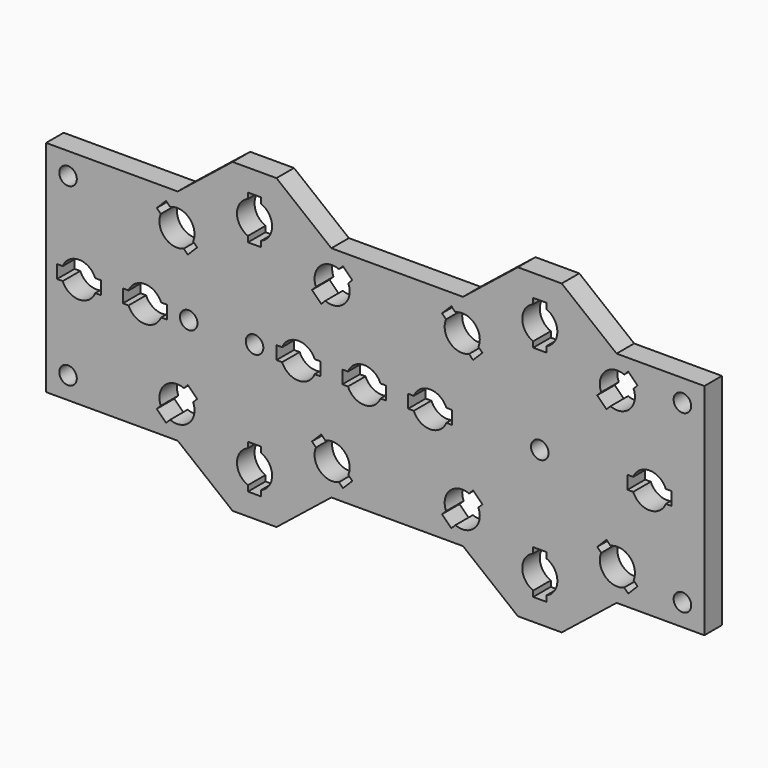
from build123d import *

# Parameters (mm, degrees)
F0_R     = 2
F1_DEPTH = 2.5
F2_R     = 2
F3_DEPTH = 5.001


with BuildPart() as f1:
    # F0 (on Front) → F1 (new body, symmetric)
    with BuildSketch(Plane.XZ):
        Polygon((-68.179107, 25), (-68.179107, 0), (-68.179107, -25), (-38.179107, -25), (-25.679107, -35), (-15.679107, -35), (-3.179107, -25), (26.820893, -25), (39.320893, -35), (49.320893, -35), (61.820893, -25), (81.820893, -25), (81.820893, 0), (81.820893, 25), (61.820893, 25), (49.320893, 35), (39.320893, 35), (26.820893, 25), (-3.179107, 25), (-15.679107, 35), (-25.679107, 35), (-38.179107, 25), align=None)
        with BuildLine():
            ThreePointArc((-34.674095, -16.116308), (-34.436909, -16.881029), (-34.356777, -17.67767))
            ThreePointArc((-34.356777, -17.67767), (-36.148321, -21.012744), (-39.918139, -21.360352))
            Line((-39.918139, -21.360352), (-40.831651, -22.273864))
            Line((-40.831651, -22.273864), (-42.952971, -20.152543))
            Line((-42.952971, -20.152543), (-42.039459, -19.239031))
            ThreePointArc((-42.039459, -19.239031), (-41.185204, -14.849242), (-36.795415, -13.994987))
            Line((-36.795415, -13.994987), (-35.881903, -13.081475))
            Line((-35.881903, -13.081475), (-33.760583, -15.202796))
            Line((-33.760583, -15.202796), (-34.674095, -16.116308))
        make_face(mode=Mode.SUBTRACT)
        with BuildLine():
            ThreePointArc((-19.179107, -21.291901), (-17.362483, -22.763932), (-16.679107, -25))
            ThreePointArc((-16.679107, -25), (-17.362483, -27.236068), (-19.179107, -28.708099))
            Line((-19.179107, -28.708099), (-19.179107, -30))
            Line((-19.179107, -30), (-22.179107, -30))
            Line((-22.179107, -30), (-22.179107, -28.708099))
            ThreePointArc((-22.179107, -28.708099), (-24.679107, -25), (-22.179107, -21.291901))
            Line((-22.179107, -21.291901), (-22.179107, -20))
            Line((-22.179107, -20), (-19.179107, -20))
            Line((-19.179107, -20), (-19.179107, -21.291901))
        make_face(mode=Mode.SUBTRACT)
        with BuildLine():
            ThreePointArc((-4.5628, -13.994987), (-0.792982, -14.342595), (0.998562, -17.67767))
            ThreePointArc((0.998562, -17.67767), (0.91843, -18.47431), (0.681244, -19.239031))
            Line((0.681244, -19.239031), (1.594756, -20.152543))
            Line((1.594756, -20.152543), (-0.526564, -22.273864))
            Line((-0.526564, -22.273864), (-1.440076, -21.360352))
            ThreePointArc((-1.440076, -21.360352), (-5.829865, -20.506097), (-6.68412, -16.116308))
            Line((-6.68412, -16.116308), (-7.597632, -15.202796))
            Line((-7.597632, -15.202796), (-5.476312, -13.081475))
            Line((-5.476312, -13.081475), (-4.5628, -13.994987))
        make_face(mode=Mode.SUBTRACT)
        with BuildLine():
            ThreePointArc((30.325905, -16.116308), (30.563091, -16.881029), (30.643223, -17.67767))
            ThreePointArc((30.643223, -17.67767), (28.851679, -21.012744), (25.081861, -21.360352))
            Line((25.081861, -21.360352), (24.168349, -22.273864))
            Line((24.168349, -22.273864), (22.047029, -20.152543))
            Line((22.047029, -20.152543), (22.960541, -19.239031))
            ThreePointArc((22.960541, -19.239031), (23.814796, -14.849242), (28.204585, -13.994987))
            Line((28.204585, -13.994987), (29.118097, -13.081475))
            Line((29.118097, -13.081475), (31.239417, -15.202796))
            Line((31.239417, -15.202796), (30.325905, -16.116308))
        make_face(mode=Mode.SUBTRACT)
        with BuildLine():
            ThreePointArc((45.820893, -21.291901), (47.637517, -22.763932), (48.320893, -25))
            ThreePointArc((48.320893, -25), (47.637517, -27.236068), (45.820893, -28.708099))
            Line((45.820893, -28.708099), (45.820893, -30))
            Line((45.820893, -30), (42.820893, -30))
            Line((42.820893, -30), (42.820893, -28.708099))
            ThreePointArc((42.820893, -28.708099), (40.320893, -25), (42.820893, -21.291901))
            Line((42.820893, -21.291901), (42.820893, -20))
            Line((42.820893, -20), (45.820893, -20))
            Line((45.820893, -20), (45.820893, -21.291901))
        make_face(mode=Mode.SUBTRACT)
        with BuildLine():
            ThreePointArc((60.4372, -13.994987), (64.207018, -14.342595), (65.998562, -17.67767))
            ThreePointArc((65.998562, -17.67767), (65.91843, -18.47431), (65.681244, -19.239031))
            Line((65.681244, -19.239031), (66.594756, -20.152543))
            Line((66.594756, -20.152543), (64.473436, -22.273864))
            Line((64.473436, -22.273864), (63.559924, -21.360352))
            ThreePointArc((63.559924, -21.360352), (59.170135, -20.506097), (58.31588, -16.116308))
            Line((58.31588, -16.116308), (57.402368, -15.202796))
            Line((57.402368, -15.202796), (59.523688, -13.081475))
            Line((59.523688, -13.081475), (60.4372, -13.994987))
        make_face(mode=Mode.SUBTRACT)
        with BuildLine():
            ThreePointArc((-64.387207, 1.5), (-60.679107, 4), (-56.971008, 1.5))
            Line((-56.971008, 1.5), (-55.679107, 1.5))
            Line((-55.679107, 1.5), (-55.679107, -1.5))
            Line((-55.679107, -1.5), (-56.971008, -1.5))
            ThreePointArc((-56.971008, -1.5), (-60.679107, -4), (-64.387207, -1.5))
            Line((-64.387207, -1.5), (-65.679107, -1.5))
            Line((-65.679107, -1.5), (-65.679107, 1.5))
            Line((-65.679107, 1.5), (-64.387207, 1.5))
        make_face(mode=Mode.SUBTRACT)
        with BuildLine():
            ThreePointArc((-49.387207, 1.5), (-45.679107, 4), (-41.971008, 1.5))
            Line((-41.971008, 1.5), (-40.679107, 1.5))
            Line((-40.679107, 1.5), (-40.679107, -1.5))
            Line((-40.679107, -1.5), (-41.971008, -1.5))
            ThreePointArc((-41.971008, -1.5), (-45.679107, -4), (-49.387207, -1.5))
            Line((-49.387207, -1.5), (-50.679107, -1.5))
            Line((-50.679107, -1.5), (-50.679107, 1.5))
            Line((-50.679107, 1.5), (-49.387207, 1.5))
        make_face(mode=Mode.SUBTRACT)
        with Locations((-35.679107, 0)):
            Circle(F0_R, mode=Mode.SUBTRACT)
        with Locations((-20.679107, 0)):
            Circle(F0_R, mode=Mode.SUBTRACT)
        with BuildLine():
            ThreePointArc((-14.387207, 1.5), (-10.679107, 4), (-6.971008, 1.5))
            Line((-6.971008, 1.5), (-5.679107, 1.5))
            Line((-5.679107, 1.5), (-5.679107, -1.5))
            Line((-5.679107, -1.5), (-6.971008, -1.5))
            ThreePointArc((-6.971008, -1.5), (-10.679107, -4), (-14.387207, -1.5))
            Line((-14.387207, -1.5), (-15.679107, -1.5))
            Line((-15.679107, -1.5), (-15.679107, 1.5))
            Line((-15.679107, 1.5), (-14.387207, 1.5))
        make_face(mode=Mode.SUBTRACT)
        with BuildLine():
            ThreePointArc((0.612793, 1.5), (4.320893, 4), (8.028992, 1.5))
            Line((8.028992, 1.5), (9.320893, 1.5))
            Line((9.320893, 1.5), (9.320893, -1.5))
            Line((9.320893, -1.5), (8.028992, -1.5))
            ThreePointArc((8.028992, -1.5), (4.320893, -4), (0.612793, -1.5))
            Line((0.612793, -1.5), (-0.679107, -1.5))
            Line((-0.679107, -1.5), (-0.679107, 1.5))
            Line((-0.679107, 1.5), (0.612793, 1.5))
        make_face(mode=Mode.SUBTRACT)
        with BuildLine():
            ThreePointArc((-39.918139, 21.360352), (-36.148321, 21.012744), (-34.356777, 17.67767))
            ThreePointArc((-34.356777, 17.67767), (-34.436909, 16.881029), (-34.674095, 16.116308))
            Line((-34.674095, 16.116308), (-33.760583, 15.202796))
            Line((-33.760583, 15.202796), (-35.881903, 13.081475))
            Line((-35.881903, 13.081475), (-36.795415, 13.994987))
            ThreePointArc((-36.795415, 13.994987), (-41.185204, 14.849242), (-42.039459, 19.239031))
            Line((-42.039459, 19.239031), (-42.952971, 20.152543))
            Line((-42.952971, 20.152543), (-40.831651, 22.273864))
            Line((-40.831651, 22.273864), (-39.918139, 21.360352))
        make_face(mode=Mode.SUBTRACT)
        with BuildLine():
            ThreePointArc((-19.179107, 28.708099), (-17.362483, 27.236068), (-16.679107, 25))
            ThreePointArc((-16.679107, 25), (-17.362483, 22.763932), (-19.179107, 21.291901))
            Line((-19.179107, 21.291901), (-19.179107, 20))
            Line((-19.179107, 20), (-22.179107, 20))
            Line((-22.179107, 20), (-22.179107, 21.291901))
            ThreePointArc((-22.179107, 21.291901), (-24.679107, 25), (-22.179107, 28.708099))
            Line((-22.179107, 28.708099), (-22.179107, 30))
            Line((-22.179107, 30), (-19.179107, 30))
            Line((-19.179107, 30), (-19.179107, 28.708099))
        make_face(mode=Mode.SUBTRACT)
        with BuildLine():
            ThreePointArc((0.681244, 19.239031), (0.91843, 18.47431), (0.998562, 17.67767))
            ThreePointArc((0.998562, 17.67767), (-0.792982, 14.342595), (-4.5628, 13.994987))
            Line((-4.5628, 13.994987), (-5.476312, 13.081475))
            Line((-5.476312, 13.081475), (-7.597632, 15.202796))
            Line((-7.597632, 15.202796), (-6.68412, 16.116308))
            ThreePointArc((-6.68412, 16.116308), (-5.829865, 20.506097), (-1.440076, 21.360352))
            Line((-1.440076, 21.360352), (-0.526564, 22.273864))
            Line((-0.526564, 22.273864), (1.594756, 20.152543))
            Line((1.594756, 20.152543), (0.681244, 19.239031))
        make_face(mode=Mode.SUBTRACT)
        with BuildLine():
            ThreePointArc((15.612793, 1.5), (19.320893, 4), (23.028992, 1.5))
            Line((23.028992, 1.5), (24.320893, 1.5))
            Line((24.320893, 1.5), (24.320893, -1.5))
            Line((24.320893, -1.5), (23.028992, -1.5))
            ThreePointArc((23.028992, -1.5), (19.320893, -4), (15.612793, -1.5))
            Line((15.612793, -1.5), (14.320893, -1.5))
            Line((14.320893, -1.5), (14.320893, 1.5))
            Line((14.320893, 1.5), (15.612793, 1.5))
        make_face(mode=Mode.SUBTRACT)
        with Locations((44.320893, 0)):
            Circle(F0_R, mode=Mode.SUBTRACT)
        with BuildLine():
            ThreePointArc((65.612793, 1.5), (69.320893, 4), (73.028992, 1.5))
            Line((73.028992, 1.5), (74.320893, 1.5))
            Line((74.320893, 1.5), (74.320893, -1.5))
            Line((74.320893, -1.5), (73.028992, -1.5))
            ThreePointArc((73.028992, -1.5), (69.320893, -4), (65.612793, -1.5))
            Line((65.612793, -1.5), (64.320893, -1.5))
            Line((64.320893, -1.5), (64.320893, 1.5))
            Line((64.320893, 1.5), (65.612793, 1.5))
        make_face(mode=Mode.SUBTRACT)
        with BuildLine():
            ThreePointArc((25.081861, 21.360352), (28.851679, 21.012744), (30.643223, 17.67767))
            ThreePointArc((30.643223, 17.67767), (30.563091, 16.881029), (30.325905, 16.116308))
            Line((30.325905, 16.116308), (31.239417, 15.202796))
            Line((31.239417, 15.202796), (29.118097, 13.081475))
            Line((29.118097, 13.081475), (28.204585, 13.994987))
            ThreePointArc((28.204585, 13.994987), (23.814796, 14.849242), (22.960541, 19.239031))
            Line((22.960541, 19.239031), (22.047029, 20.152543))
            Line((22.047029, 20.152543), (24.168349, 22.273864))
            Line((24.168349, 22.273864), (25.081861, 21.360352))
        make_face(mode=Mode.SUBTRACT)
        with BuildLine():
            ThreePointArc((65.681244, 19.239031), (65.91843, 18.47431), (65.998562, 17.67767))
            ThreePointArc((65.998562, 17.67767), (64.207018, 14.342595), (60.4372, 13.994987))
            Line((60.4372, 13.994987), (59.523688, 13.081475))
            Line((59.523688, 13.081475), (57.402368, 15.202796))
            Line((57.402368, 15.202796), (58.31588, 16.116308))
            ThreePointArc((58.31588, 16.116308), (59.170135, 20.506097), (63.559924, 21.360352))
            Line((63.559924, 21.360352), (64.473436, 22.273864))
            Line((64.473436, 22.273864), (66.594756, 20.152543))
            Line((66.594756, 20.152543), (65.681244, 19.239031))
        make_face(mode=Mode.SUBTRACT)
        with BuildLine():
            ThreePointArc((45.820893, 28.708099), (47.637517, 27.236068), (48.320893, 25))
            ThreePointArc((48.320893, 25), (47.637517, 22.763932), (45.820893, 21.291901))
            Line((45.820893, 21.291901), (45.820893, 20))
            Line((45.820893, 20), (42.820893, 20))
            Line((42.820893, 20), (42.820893, 21.291901))
            ThreePointArc((42.820893, 21.291901), (40.320893, 25), (42.820893, 28.708099))
            Line((42.820893, 28.708099), (42.820893, 30))
            Line((42.820893, 30), (45.820893, 30))
            Line((45.820893, 30), (45.820893, 28.708099))
        make_face(mode=Mode.SUBTRACT)
    extrude(amount=F1_DEPTH, both=True)

    # F2 (on face) → F3 (cut, through all)
    with BuildSketch(Plane(origin=(0, 2.5, 0), x_dir=(-1, 0, 0), z_dir=(0, 1, 0))):
        with Locations((-76.820893, 20)):
            Circle(F2_R)
        with Locations((-76.820893, -20)):
            Circle(F2_R)
        with Locations((63.179107, 20)):
            Circle(F2_R)
        with Locations((63.179107, -20)):
            Circle(F2_R)
    extrude(amount=-F3_DEPTH, mode=Mode.SUBTRACT)


solid = f1.part
